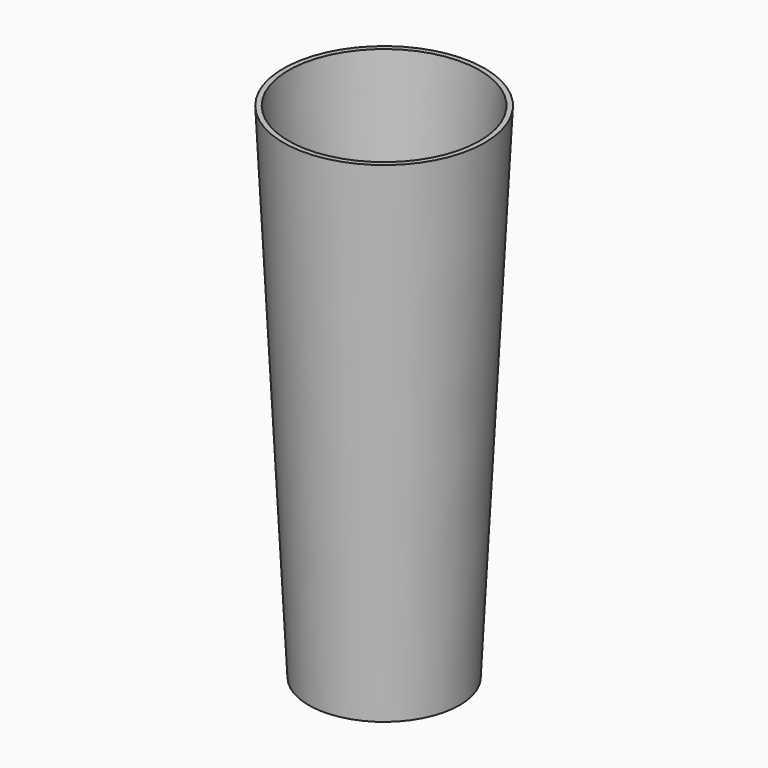
from build123d import *

# Parameters (mm, degrees)
F0_R     = 38.1
F2_R     = 50.8
F4_T     = -2.54
F5_W     = 44.45
F5_H     = 55.88
F6_DEPTH = 25.4
F8_R     = 41.91
F9_DEPTH = 2.54


with BuildPart() as f3:
    # F0 (on Top) → F3 section 0
    with BuildSketch(Plane.XY):
        Circle(F0_R)
    # F2 (on offset) → F3 section 1
    with BuildSketch(Plane.XY.offset(254)):
        Circle(F2_R)
    loft()

    # F4
    f4_openings = [f3.faces().sort_by_distance(p)[0] for p in [
        (0, 0, 254),
    ]]
    offset(amount=F4_T, openings=f4_openings, kind=Kind.INTERSECTION)

    # F5 (on face) → F6 (cut)
    with BuildSketch(Plane(origin=(0, 0, 0), x_dir=(1, 0, 0), z_dir=(0, 0, -1))):
        Rectangle(F5_W, F5_H)
    extrude(amount=-F6_DEPTH, mode=Mode.SUBTRACT)

    # F8 (on offset) → F9 (join)
    with BuildSketch(Plane.XY.offset(127)):
        Circle(F8_R)
    extrude(amount=-F9_DEPTH)


solid = f3.part
